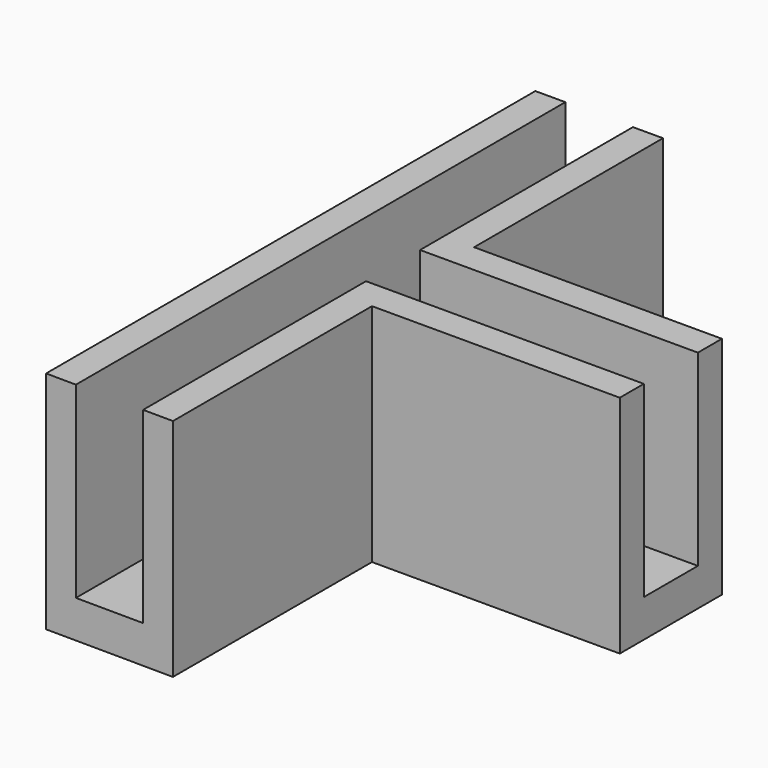
from build123d import *

# Parameters (mm, degrees)
F1_DEPTH = 30
F3_DEPTH = 25


with BuildPart() as f1:
    # F0 (on Top) → F1 (new body)
    with BuildSketch(Plane.XY):
        Polygon((-23.9820895971, 38.9488031475), (-23.9820895971, -11.0511968525), (-6.9826249704, -11.186113151), (-6.9826249704, 21.9488031475), (26.0179104029, 21.9488031475), (26.0179104029, 38.9488031475), (-6.9820895971, 38.9488031475), (-6.9820895971, 70.3876465559), (-23.9820895971, 70.3876465559), align=None)
    extrude(amount=F1_DEPTH)

    # F2 (on face) → F3 (cut)
    with BuildSketch(Plane.XY.offset(30)):
        Polygon((-19.9820895971, 34.9488031475), (-19.9820895971, -11.0829428637), (-10.9820895971, -11.1543713888), (-10.9820895971, 25.9488031475), (26.0179104029, 25.9488031475), (26.0179104029, 34.9488031475), (-10.9820895971, 34.9488031475), (-10.9820895971, 70.3876465559), (-19.9820895971, 70.3876465559), align=None)
    extrude(amount=-F3_DEPTH, mode=Mode.SUBTRACT)


solid = f1.part
